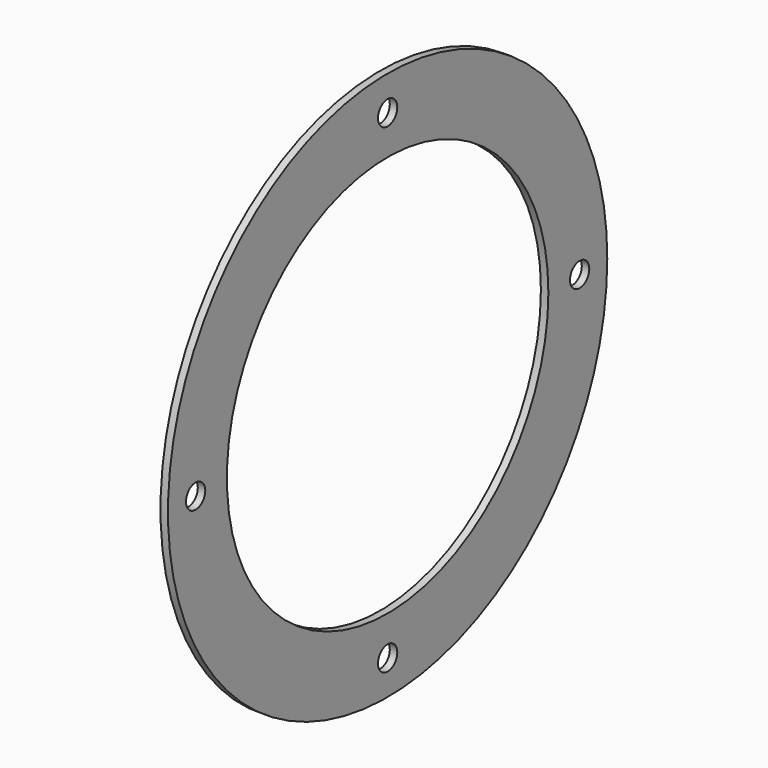
from build123d import *

# Parameters (mm, degrees)
F0_R     = 110
F0_R_2   = 80.5
F1_DEPTH = 3
F2_R     = 4.825
F3_DEPTH = 5


with BuildPart() as f1:
    # F0 (on Right) → F1 (new body)
    with BuildSketch(Plane.YZ):
        Circle(F0_R)
        Circle(F0_R_2, mode=Mode.SUBTRACT)
    extrude(amount=-F1_DEPTH)

    # F2 (on face) → F3 (cut)
    with BuildSketch(Plane.YZ):
        with Locations((0, 96.157946)):
            Circle(F2_R)
        with Locations((-96.157946, 0)):
            Circle(F2_R)
        with Locations((0, -96.157946)):
            Circle(F2_R)
        with Locations((96.157946, 0)):
            Circle(F2_R)
    extrude(amount=-F3_DEPTH, mode=Mode.SUBTRACT)


solid = f1.part
